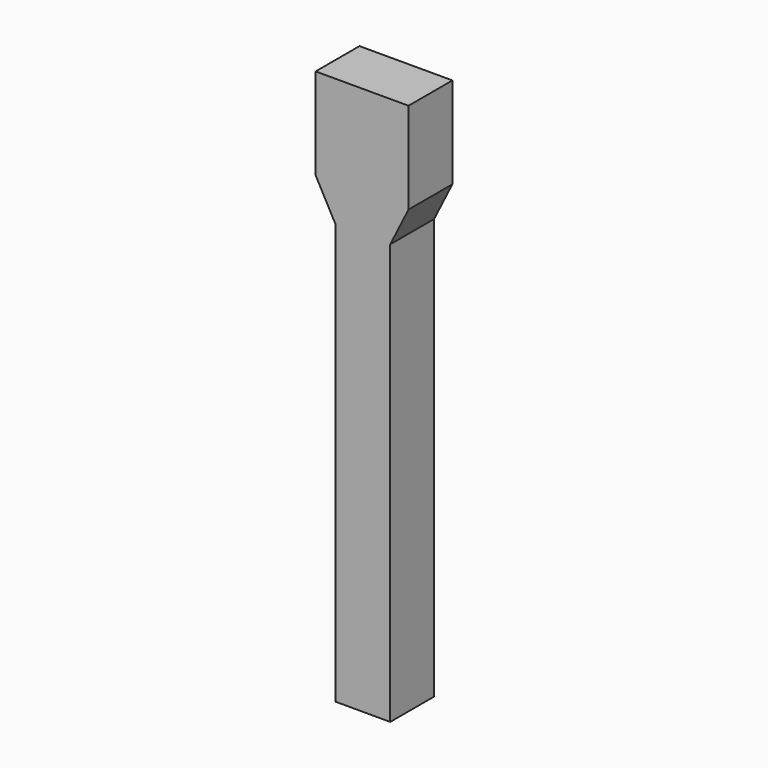
from build123d import *

# Parameters (mm, degrees)
F0_W     = 1549.2984
F0_H     = 1524
F1_DEPTH = 914.4


with BuildPart() as f1:
    # F0 (on Front) → F1 (new body)
    with BuildSketch(Plane.XZ):
        with Locations((0, 3810)):
            Rectangle(F0_W, F0_H)
        Polygon((774.6492, 3048), (-774.6492, 3048), (-444.5508, 2438.4), (-444.5508, -4572), (469.8492, -4572), (469.8492, 2438.4), align=None)
    extrude(amount=F1_DEPTH)


solid = f1.part
